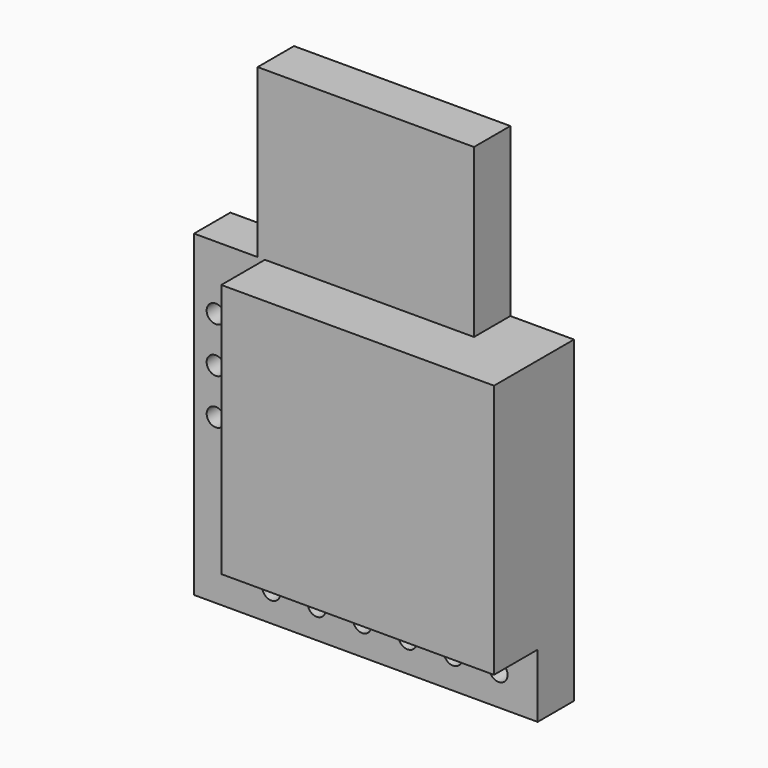
from build123d import *

# Parameters (mm, degrees)
F1_DEPTH = 5.5
F0_R     = 0.5
F2_DEPTH = 2.5


with BuildPart() as f1:
    # F0 (on Front) → F1 (new body)
    with BuildSketch(Plane.XZ):
        Polygon((14.10483, 19.007904), (2.70483, 19.007904), (2.70483, 5.007904), (17.70483, 5.007904), (17.70483, 19.007904), (14.864999, 19.007904), (14.50483, 19.007904), (14.20483, 19.007904), align=None)
    extrude(amount=F1_DEPTH)

    # F0 (on Front) → F2 (join)
    with BuildSketch(Plane.XZ):
        Polygon((2.30483, 19.007904), (-1.19517, 19.007904), (-1.19517, 1.507904), (17.70483, 1.507904), (17.70483, 5.007904), (2.70483, 5.007904), (2.70483, 19.007904), align=None)
        with Locations((3.05315, 3.12218)):
            Circle(F0_R, mode=Mode.SUBTRACT)
        with Locations((5.553036, 3.146059)):
            Circle(F0_R, mode=Mode.SUBTRACT)
        with Locations((8.052922, 3.169939)):
            Circle(F0_R, mode=Mode.SUBTRACT)
        with Locations((0, 10.509157)):
            Circle(F0_R, mode=Mode.SUBTRACT)
        with Locations((0, 13.009157)):
            Circle(F0_R, mode=Mode.SUBTRACT)
        with Locations((10.552808, 3.193818)):
            Circle(F0_R, mode=Mode.SUBTRACT)
        with Locations((13.052693, 3.217697)):
            Circle(F0_R, mode=Mode.SUBTRACT)
        with Locations((15.552579, 3.241576)):
            Circle(F0_R, mode=Mode.SUBTRACT)
        with Locations((0, 15.509157)):
            Circle(F0_R, mode=Mode.SUBTRACT)
        Polygon((2.30483, 28.207904), (2.30483, 19.007904), (2.70483, 19.007904), (14.10483, 19.007904), (14.20483, 19.007904), (14.20483, 28.207904), align=None)
        Polygon((14.10483, 19.007904), (2.70483, 19.007904), (2.70483, 5.007904), (17.70483, 5.007904), (17.70483, 19.007904), (14.864999, 19.007904), (14.50483, 19.007904), (14.20483, 19.007904), align=None)
    extrude(amount=F2_DEPTH)


solid = f1.part
